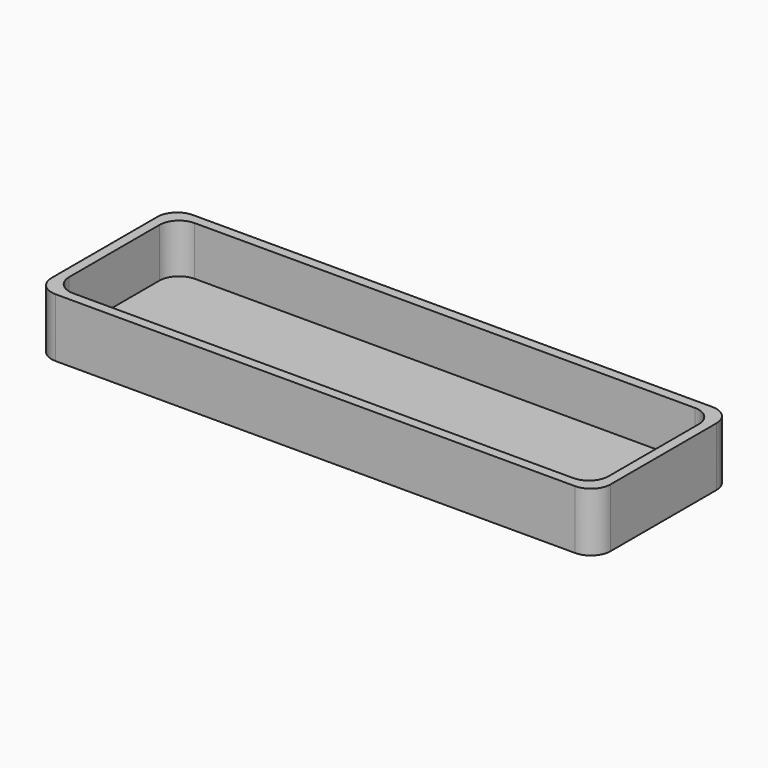
from build123d import *

# Parameters (mm, degrees)
F1_DEPTH = 2
F2_DEPTH = 12


with BuildPart() as f1:
    # F0 (on Top) → F1 (new body)
    with BuildSketch(Plane.XY):
        with BuildLine():
            Line((53, 17.5), (-53, 17.5))
            ThreePointArc((-53, 17.5), (-55.8284271247, 16.3284271247), (-57, 13.5))
            Line((-57, 13.5), (-57, -13.5))
            ThreePointArc((-57, -13.5), (-55.8284271247, -16.3284271247), (-53, -17.5))
            Line((-53, -17.5), (53, -17.5))
            ThreePointArc((53, -17.5), (55.8284271247, -16.3284271247), (57, -13.5))
            Line((57, -13.5), (57, 13.5))
            ThreePointArc((57, 13.5), (55.8284271247, 16.3284271247), (53, 17.5))
        make_face()
        with BuildLine():
            ThreePointArc((-55, 11.5), (-53.8284271247, 14.3284271247), (-51, 15.5))
            Line((-51, 15.5), (51, 15.5))
            ThreePointArc((51, 15.5), (53.8284271247, 14.3284271247), (55, 11.5))
            Line((55, 11.5), (55, -11.5))
            ThreePointArc((55, -11.5), (53.8284271247, -14.3284271247), (51, -15.5))
            Line((51, -15.5), (-51, -15.5))
            ThreePointArc((-51, -15.5), (-53.8284271247, -14.3284271247), (-55, -11.5))
            Line((-55, -11.5), (-55, 11.5))
        make_face(mode=Mode.SUBTRACT)
        with BuildLine():
            Line((51, 15.5), (-51, 15.5))
            ThreePointArc((-51, 15.5), (-53.8284271247, 14.3284271247), (-55, 11.5))
            Line((-55, 11.5), (-55, -11.5))
            ThreePointArc((-55, -11.5), (-53.8284271247, -14.3284271247), (-51, -15.5))
            Line((-51, -15.5), (51, -15.5))
            ThreePointArc((51, -15.5), (53.8284271247, -14.3284271247), (55, -11.5))
            Line((55, -11.5), (55, 11.5))
            ThreePointArc((55, 11.5), (53.8284271247, 14.3284271247), (51, 15.5))
        make_face()
    extrude(amount=F1_DEPTH)

    # F0 (on Top) → F2 (join)
    with BuildSketch(Plane.XY):
        with BuildLine():
            Line((53, 17.5), (-53, 17.5))
            ThreePointArc((-53, 17.5), (-55.8284271247, 16.3284271247), (-57, 13.5))
            Line((-57, 13.5), (-57, -13.5))
            ThreePointArc((-57, -13.5), (-55.8284271247, -16.3284271247), (-53, -17.5))
            Line((-53, -17.5), (53, -17.5))
            ThreePointArc((53, -17.5), (55.8284271247, -16.3284271247), (57, -13.5))
            Line((57, -13.5), (57, 13.5))
            ThreePointArc((57, 13.5), (55.8284271247, 16.3284271247), (53, 17.5))
        make_face()
        with BuildLine():
            ThreePointArc((-55, 11.5), (-53.8284271247, 14.3284271247), (-51, 15.5))
            Line((-51, 15.5), (51, 15.5))
            ThreePointArc((51, 15.5), (53.8284271247, 14.3284271247), (55, 11.5))
            Line((55, 11.5), (55, -11.5))
            ThreePointArc((55, -11.5), (53.8284271247, -14.3284271247), (51, -15.5))
            Line((51, -15.5), (-51, -15.5))
            ThreePointArc((-51, -15.5), (-53.8284271247, -14.3284271247), (-55, -11.5))
            Line((-55, -11.5), (-55, 11.5))
        make_face(mode=Mode.SUBTRACT)
    extrude(amount=F2_DEPTH)


solid = f1.part
